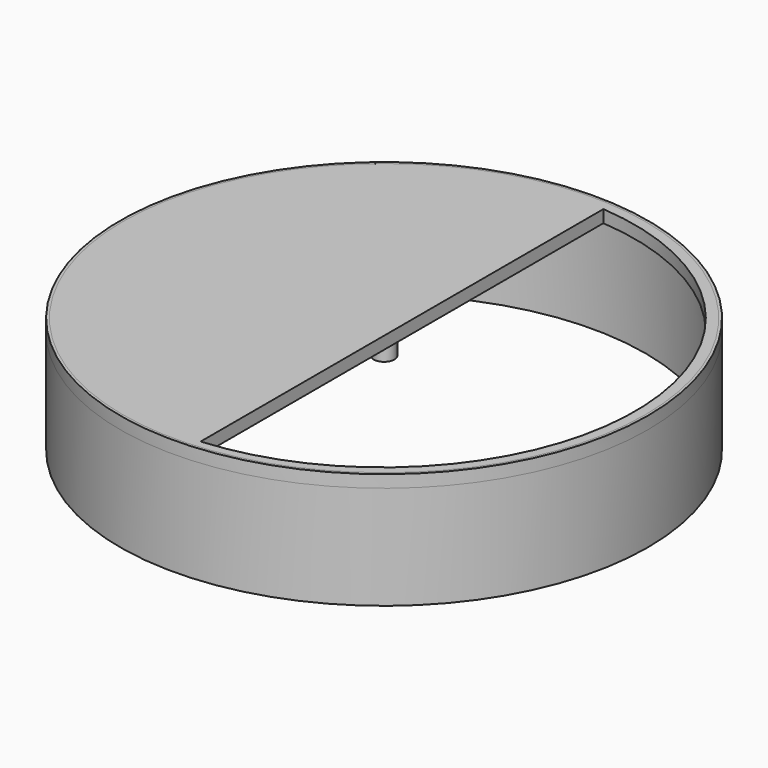
from build123d import *

# Parameters (mm, degrees)
F0_R     = 252.5
F1_DEPTH = 12
F2_R     = 10
F3_DEPTH = 20
F5_DEPTH = 12
F6_R     = 255
F6_R_2   = 252.5
F7_DEPTH = 100
F8_DEPTH = 12


with BuildPart() as f1:
    # F0 (on Top) → F1 (new body)
    with BuildSketch(Plane.XY):
        Circle(F0_R)
    extrude(amount=F1_DEPTH)

    # F2 (on Top) → F3 (join)
    with BuildSketch(Plane.XY):
        Circle(F2_R)
    extrude(amount=-F3_DEPTH)

    # F4 (on Top) → F5 (cut)
    with BuildSketch(Plane.XY):
        with BuildLine():
            Line((17.905863, 242.445424), (17.905863, 0))
            Line((17.905863, 0), (17.905863, -243.877903))
            ThreePointArc((17.905863, -243.877903), (242.967911, -0.716239), (17.905863, 242.445424))
        make_face()
    extrude(amount=F5_DEPTH, mode=Mode.SUBTRACT)


with BuildPart() as f7:
    # F6 (on Top) → F7 (new body)
    with BuildSketch(Plane.XY):
        Circle(F6_R)
        Circle(F6_R_2, mode=Mode.SUBTRACT)
    extrude(amount=-F7_DEPTH)


with BuildPart() as f8:
    # F6 (on Top) → F8 (new body)
    with BuildSketch(Plane.XY):
        Circle(F6_R)
        Circle(F6_R_2, mode=Mode.SUBTRACT)
    extrude(amount=F8_DEPTH)


solid = Compound([f1.part, f7.part, f8.part])
